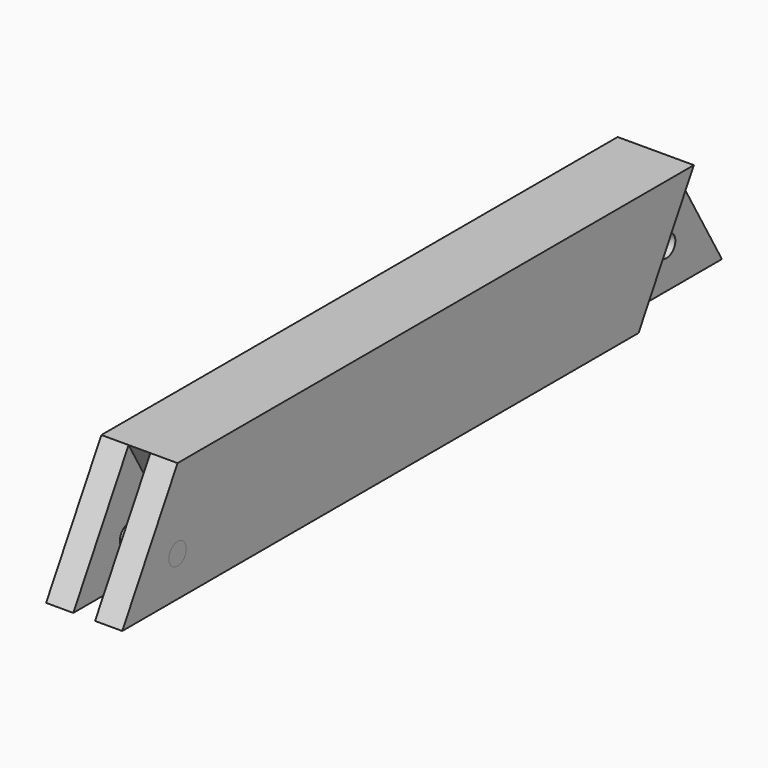
from build123d import *

# Parameters (mm, degrees)
F1_DEPTH      = 44.45
F1_DEPTH_BACK = 44.45
F3_DEPTH      = 12.7
F3_DEPTH_BACK = 12.7
F5_DEPTH      = 31.75
F7_DEPTH      = 31.75
F8_R          = 12.7
F9_DEPTH      = 44.451
F9_DEPTH_BACK = 44.451
F10_R         = 12.7
F11_DEPTH     = 88.9


with BuildPart() as f1:
    # F0 (on Right) → F1 (new body, two sides)
    with BuildSketch(Plane.YZ) as f1_sk:
        Polygon((376.5441673942, 69.85), (-376.5441673942, 69.85), (-457.2, -69.85), (457.2, -69.85), align=None)
    extrude(amount=F1_DEPTH)
    extrude(f1_sk.sketch, amount=-F1_DEPTH_BACK)

    # F2 (on Right) → F3 (cut, two sides)
    with BuildSketch(Plane.YZ) as f3_sk:
        Polygon((-295.8883347884, -69.85), (-376.5441673942, 69.85), (-457.2, -69.85), align=None)
    extrude(amount=-F3_DEPTH, mode=Mode.SUBTRACT)
    extrude(f3_sk.sketch, amount=F3_DEPTH_BACK, mode=Mode.SUBTRACT)

    # F4 (on face) → F5 (cut)
    with BuildSketch(Plane.YZ.offset(44.45)):
        Polygon((457.2, -69.85), (376.5441673942, 69.85), (295.8883347884, -69.85), align=None)
    extrude(amount=-F5_DEPTH, mode=Mode.SUBTRACT)

    # F6 (on face) → F7 (cut)
    with BuildSketch(Plane(origin=(-44.45, 0, 0), x_dir=(0, -1, 0), z_dir=(-1, 0, 0))):
        Polygon((-295.8883347884, -69.85), (-376.5441673942, 69.85), (-457.2, -69.85), align=None)
    extrude(amount=-F7_DEPTH, mode=Mode.SUBTRACT)

    # F8 (on Right) → F9 (cut, two sides)
    with BuildSketch(Plane.YZ) as f9_sk:
        with Locations((-376.5441673942, -23.2833333333)):
            Circle(F8_R)
        with Locations((376.5441673942, -23.2833333333)):
            Circle(F8_R)
    extrude(amount=-F9_DEPTH, mode=Mode.SUBTRACT)
    extrude(f9_sk.sketch, amount=F9_DEPTH_BACK, mode=Mode.SUBTRACT)


with BuildPart() as f11:
    # F10 (on face) → F11 (new body)
    with BuildSketch(Plane.YZ.offset(44.45)):
        with Locations((-376.5441673942, -23.2833333333)):
            Circle(F10_R)
    extrude(amount=-F11_DEPTH)


solid = Compound([f1.part, f11.part])
